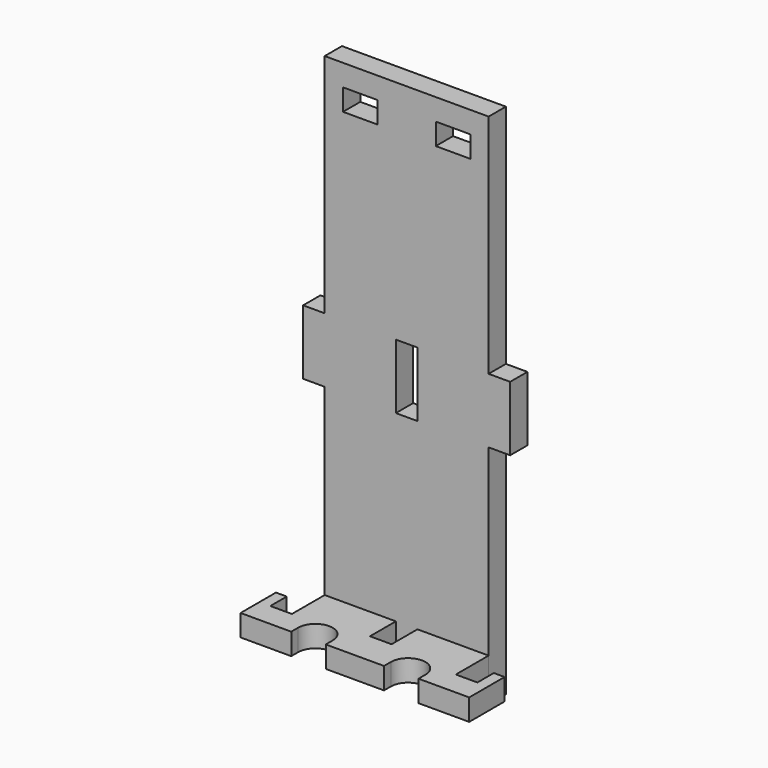
from build123d import *

# Parameters (mm, degrees)
F1_DEPTH  = 6.35
F2_W      = 3.175
F2_H      = 6.0325
F3_DEPTH  = 6.351
F4_W      = 5.3975
F4_H      = 6.35
F5_DEPTH  = 6.35
F6_W      = 10.16
F6_H      = 6.35
F7_DEPTH  = 25.401
F8_W      = 6.35
F8_H      = 19.05
F9_DEPTH  = 6.35
F10_W     = 10.16
F10_H     = 6.35
F11_DEPTH = 25.401
F12_W     = 6.35
F12_H     = 19.05
F13_DEPTH = 6.351


with BuildPart() as f1:
    # F0 (on Top) → F1 (new body)
    with BuildSketch(Plane.XY):
        with BuildLine():
            Line((0, 19.05), (0, 0))
            Line((0, 0), (14.9225, 0))
            Line((14.9225, 0), (14.9225, 2.54))
            ThreePointArc((14.9225, 2.54), (20.0025, 7.62), (25.0825, 2.54))
            Line((25.0825, 2.54), (25.0825, 0))
            Line((25.0825, 0), (42.2275, 0))
            Line((42.2275, 0), (42.2275, 2.54))
            ThreePointArc((42.2275, 2.54), (47.3075, 7.62), (52.3875, 2.54))
            Line((52.3875, 2.54), (52.3875, 0))
            Line((52.3875, 0), (67.31, 0))
            Line((67.31, 0), (67.31, 19.05))
            Line((67.31, 19.05), (52.3875, 19.05))
            Line((52.3875, 19.05), (52.3875, 25.4))
            Line((52.3875, 25.4), (42.2275, 25.4))
            Line((42.2275, 25.4), (42.2275, 19.05))
            Line((42.2275, 19.05), (36.83, 19.05))
            Line((36.83, 19.05), (36.83, 9.525))
            Line((36.83, 9.525), (30.48, 9.525))
            Line((30.48, 9.525), (30.48, 19.05))
            Line((30.48, 19.05), (25.0825, 19.05))
            Line((25.0825, 19.05), (25.0825, 25.4))
            Line((25.0825, 25.4), (14.9225, 25.4))
            Line((14.9225, 25.4), (14.9225, 19.05))
            Line((14.9225, 19.05), (0, 19.05))
        make_face()
    extrude(amount=F1_DEPTH)

    # F2 (on face) → F3 (cut, through all)
    with BuildSketch(Plane.XY.offset(6.35)):
        with Locations((1.5875, 16.03375)):
            Rectangle(F2_W, F2_H)
        Polygon((9.525, 19.05), (3.175, 19.05), (3.175, 13.0175), (3.175, 6.985), (9.525, 6.985), align=None)
        Polygon((64.135, 19.05), (57.785, 19.05), (57.785, 6.985), (64.135, 6.985), (64.135, 13.0175), align=None)
        with Locations((65.7225, 16.03375)):
            Rectangle(F2_W, F2_H)
    extrude(amount=-F3_DEPTH, mode=Mode.SUBTRACT)


with BuildPart() as f5:
    # F4 (on face) → F5 (new body)
    with BuildSketch(Plane(origin=(0, 19.05, 0), x_dir=(-1, 0, 0), z_dir=(0, 1, 0))):
        Polygon((-57.785, 0), (-57.785, -6.35), (-9.525, -6.35), (-9.525, 0), (-9.525, 6.35), (-9.525, 146.05), (-57.785, 146.05), (-57.785, 6.35), (-52.3875, 6.35), (-52.3875, 0), align=None)
        with Locations((-55.08625, 3.175)):
            Rectangle(F4_W, F4_H)
    extrude(amount=F5_DEPTH)

    # F6 (on face) → F7 (cut, through all)
    with BuildSketch(Plane(origin=(0, 25.4, 0), x_dir=(-1, 0, 0), z_dir=(0, 1, 0))):
        with Locations((-47.3075, 3.175)):
            Rectangle(F6_W, F6_H)
        with Locations((-20.0025, 3.175)):
            Rectangle(F6_W, F6_H)
    extrude(amount=-F7_DEPTH, mode=Mode.SUBTRACT)

    # F8 (on face) → F9 (join, through all)
    with BuildSketch(Plane(origin=(0, 19.05, 0), x_dir=(-1, 0, 0), z_dir=(0, 1, 0))):
        with Locations((-6.35, 69.85)):
            Rectangle(F8_W, F8_H)
        with Locations((-60.96, 69.85)):
            Rectangle(F8_W, F8_H)
    extrude(amount=F9_DEPTH)

    # F10 (on face) → F11 (cut, through all)
    with BuildSketch(Plane(origin=(0, 25.4, 0), x_dir=(-1, 0, 0), z_dir=(0, 1, 0))):
        with Locations((-47.3075, 136.525)):
            Rectangle(F10_W, F10_H)
        with Locations((-20.0025, 136.525)):
            Rectangle(F10_W, F10_H)
    extrude(amount=-F11_DEPTH, mode=Mode.SUBTRACT)

    # F12 (on face) → F13 (cut, through all)
    with BuildSketch(Plane(origin=(0, 19.05, 0), x_dir=(-1, 0, 0), z_dir=(0, 1, 0))):
        with Locations((-33.655, 69.85)):
            Rectangle(F12_W, F12_H)
    extrude(amount=F13_DEPTH, mode=Mode.SUBTRACT)


solid = Compound([f1.part, f5.part])
